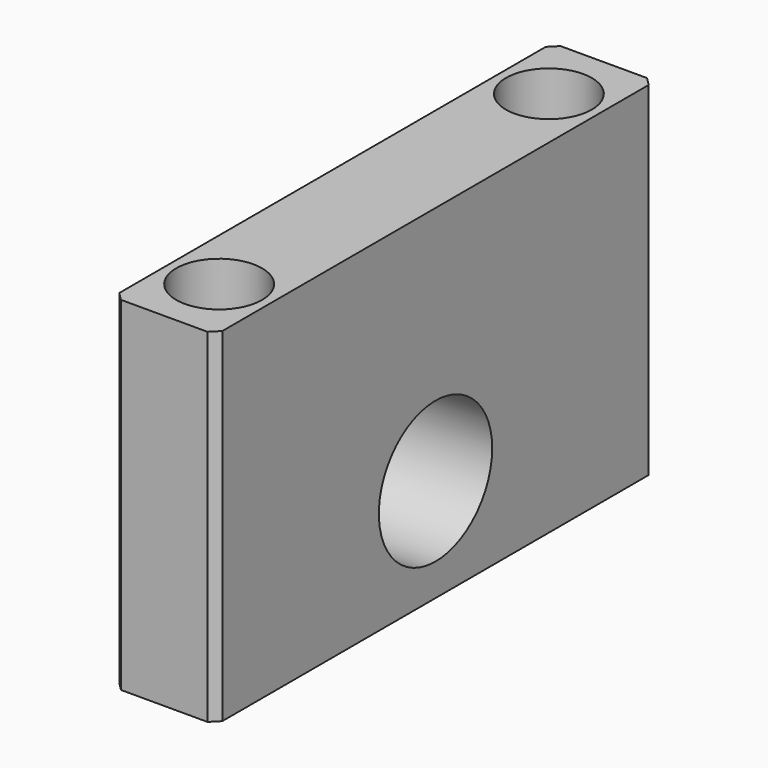
from build123d import *

# Parameters (mm, degrees)
F0_W     = 203.2
F0_H     = 38.1
F1_DEPTH = 127
F2_R     = 15.875
F3_DEPTH = 127.001
F4_SIZE  = 3.048
F5_R     = 26.19375
F6_DEPTH = 38.101
F7_ANGLE = 90


with BuildPart() as f1:
    # F0 (on Top) → F1 (new body)
    with BuildSketch(Plane.XY):
        with Locations((-80.2247157872, -0.3943982914)):
            Rectangle(F0_W, F0_H)
    extrude(amount=F1_DEPTH)

    # F2 (on face) → F3 (cut, through all)
    with BuildSketch(Plane.XY.offset(127)):
        with Locations((-156.4247157872, -0.3943982914)):
            Circle(F2_R)
        with Locations((-4.0247157872, -0.3943982914)):
            Circle(F2_R)
    extrude(amount=-F3_DEPTH, mode=Mode.SUBTRACT)

    # F4
    f4_edges = [f1.edges().sort_by_distance(p)[0] for p in [
        (-181.824716, -19.444398, 63.5),
        (21.375284, -19.444398, 63.5),
        (21.375284, 18.655602, 63.5),
        (-181.824716, 18.655602, 63.5),
    ]]
    chamfer(f4_edges, length=F4_SIZE)

    # F5 (on face) → F6 (cut, through all)
    with BuildSketch(Plane.XZ.offset(19.4443982914)):
        with Locations((-80.2247157872, 38.1)):
            Circle(F5_R)
    extrude(amount=-F6_DEPTH, mode=Mode.SUBTRACT)


with BuildPart() as f1_1:
    # F7: moved
    add(f1.part.rotate(Axis((18.3272842128, -19.4443982914, 63.5), (0, 0, 1)), F7_ANGLE))


solid = f1_1.part
